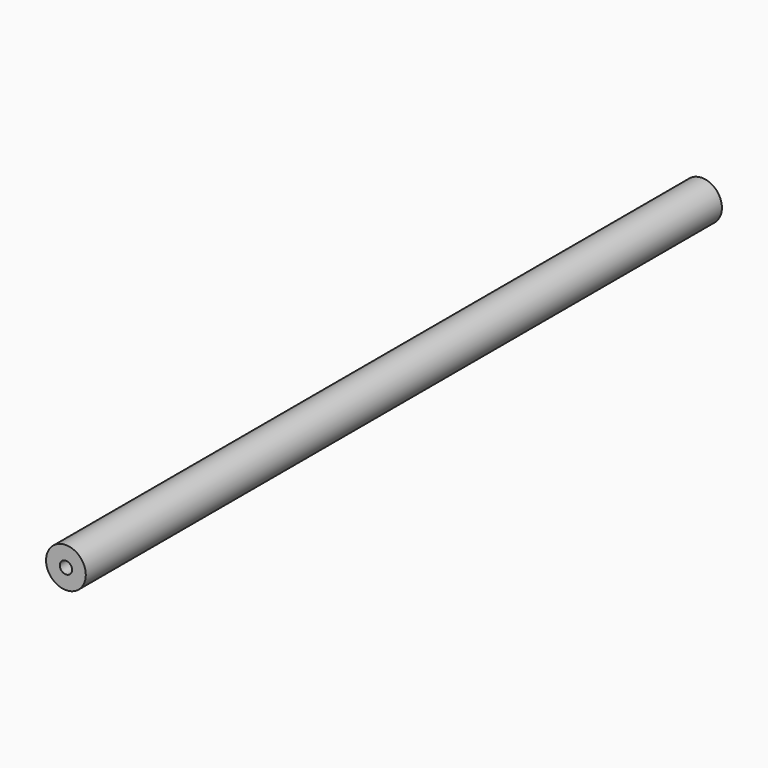
from build123d import *

# Parameters (mm, degrees)
F0_R     = 8
F0_R_2   = 2.455
F1_DEPTH = 320
F4_D     = 4.91
F4_DEPTH = 20
F4_TIP   = 1.4751128197
F5_D     = 4.91
F5_DEPTH = 20
F5_TIP   = 1.4751128197


with BuildPart() as f1:
    # F0 (on Front) → F1 (new body)
    with BuildSketch(Plane.XZ):
        Circle(F0_R)
        Circle(F0_R_2, mode=Mode.SUBTRACT)
        Circle(F0_R_2)
    extrude(amount=F1_DEPTH)

    # F4
    with Locations(Plane.XZ.offset(320)):
        with Locations((0, 0)):
            Hole(F4_D / 2, depth=F4_DEPTH)
            with Locations((0, 0, -(F4_DEPTH + F4_TIP / 2))):  # 118° drill point
                Cone(0, F4_D / 2, F4_TIP, mode=Mode.SUBTRACT)

    # F5
    with Locations(Plane(origin=(0, 0, 0), x_dir=(-1, 0, 0), z_dir=(0, 1, 0))):
        with Locations((0, 0)):
            Hole(F5_D / 2, depth=F5_DEPTH)
            with Locations((0, 0, -(F5_DEPTH + F5_TIP / 2))):  # 118° drill point
                Cone(0, F5_D / 2, F5_TIP, mode=Mode.SUBTRACT)


solid = f1.part
